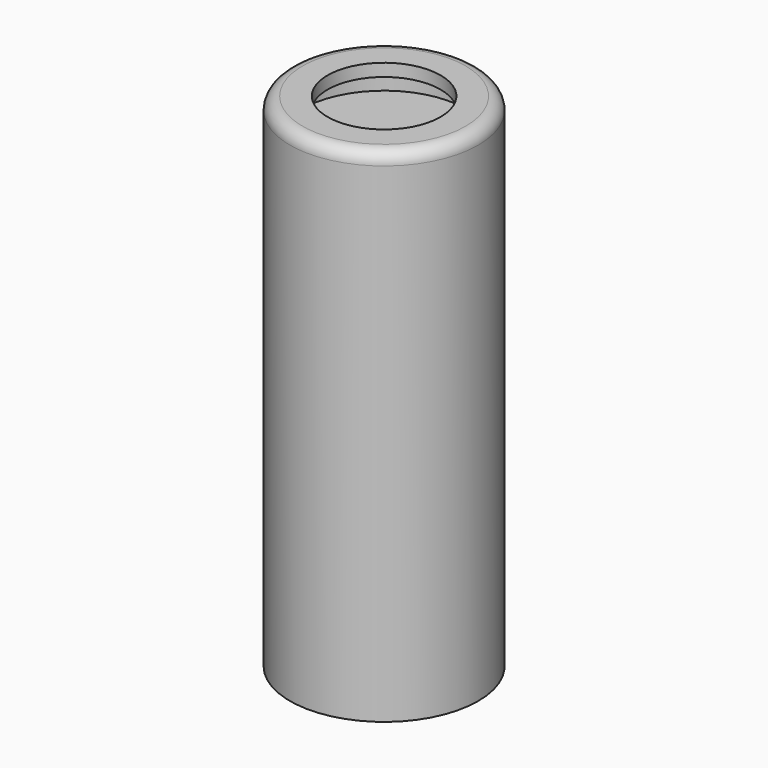
from build123d import *

# Parameters (mm, degrees)
SKETCH055_R     = 3.75
PAD027_DEPTH    = 20
SKETCH056_R     = 2.25
POCKET021_DEPTH = 0.5
SKETCH057_R     = 3.25
POCKET019_DEPTH = 1
FILLET008_R     = 0.5


with BuildPart() as part:
    # Sketch055 → Pad027 (new body)
    with BuildSketch(Plane.XY):
        Circle(SKETCH055_R)
    extrude(amount=PAD027_DEPTH)

    # Sketch056 (on Face3 of Pad027) → Pocket021 (cut)
    with BuildSketch(Plane.XY.offset(20)):
        Circle(SKETCH056_R)
    extrude(amount=-POCKET021_DEPTH, mode=Mode.SUBTRACT)

    # Sketch057 (on Face5 of Pocket021) → Pocket019 (cut)
    with BuildSketch(Plane.XY.offset(19.5)):
        Circle(SKETCH057_R)
    extrude(amount=-POCKET019_DEPTH, mode=Mode.SUBTRACT)

    # Fillet008
    fillet008_edges = [part.edges().sort_by_distance(p)[0] for p in [
        (-3.75, 0, 20),
    ]]
    fillet(fillet008_edges, radius=FILLET008_R)


solid = part.part
